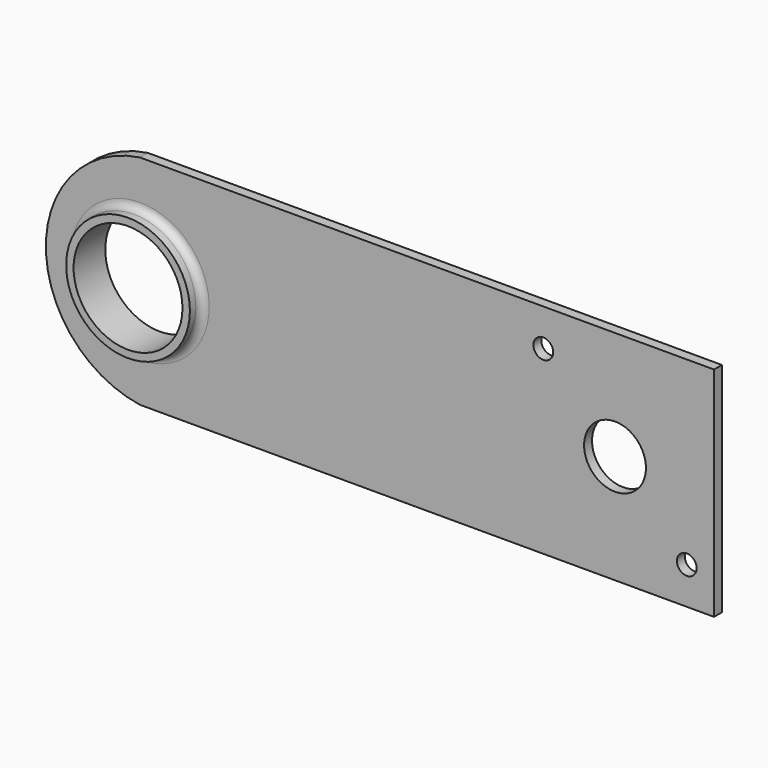
from build123d import *

# Parameters (mm, degrees)
F0_R     = 39.6875
F0_R_2   = 19.84375
F1_DEPTH = 3.175
F0_R_3   = 34.925
F2_DEPTH = 12.7
F3_R     = 4.7625
F5_D     = 12.7


with BuildPart() as f1:
    # F0 (on Front) → F1 (new body, symmetric)
    with BuildSketch(Plane.XZ):
        with BuildLine():
            Line((215.9, -69.85), (215.9, 69.85))
            Line((215.9, 69.85), (-152.4, 69.85))
            ThreePointArc((-152.4, 69.85), (-212.725, 0), (-152.4, -69.85))
            Line((-152.4, -69.85), (215.9, -69.85))
        make_face()
        with Locations((-152.4, 0)):
            Circle(F0_R, mode=Mode.SUBTRACT)
        with Locations((152.4, 0)):
            Circle(F0_R_2, mode=Mode.SUBTRACT)
    extrude(amount=F1_DEPTH, both=True)

    # F0 (on Front) → F2 (join, symmetric)
    with BuildSketch(Plane.XZ):
        with Locations((-152.4, 0)):
            Circle(F0_R)
        with Locations((-152.4, 0)):
            Circle(F0_R_3, mode=Mode.SUBTRACT)
    extrude(amount=F2_DEPTH, both=True)

    # F3
    f3_edges = [f1.edges().sort_by_distance(p)[0] for p in [
        (-192.0875, -3.175, 0),
        (-192.0875, 3.175, 0),
    ]]
    fillet(f3_edges, radius=F3_R)

    # F5 (through all)
    with Locations(Plane(origin=(0, 3.175, 0), x_dir=(-1, 0, 0), z_dir=(0, 1, 0))):
        with Locations((-106.376187, 46.023813), (-198.423813, -46.023813)):
            Hole(F5_D / 2)


solid = f1.part
